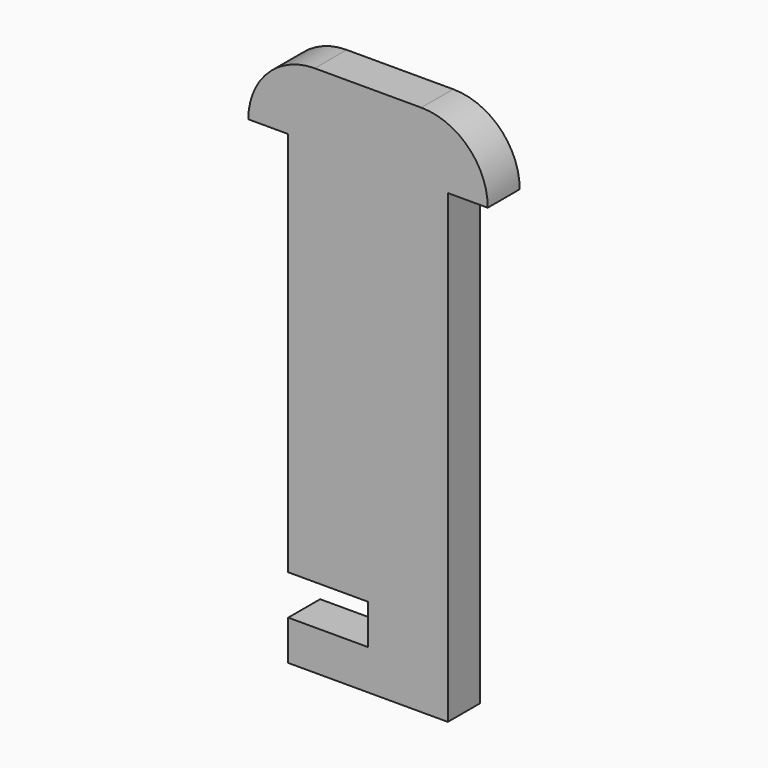
from build123d import *

# Parameters (mm, degrees)
F1_DEPTH = 3


with BuildPart() as f1:
    # F0 (on Front) → F1 (new body)
    with BuildSketch(Plane.XZ):
        with BuildLine():
            Line((-9, 29), (-6, 29))
            Line((-6, 29), (-6, 0))
            Line((-6, 0), (0, 0))
            Line((0, 0), (0, -3))
            Line((0, -3), (-6, -3))
            Line((-6, -3), (-6, -6))
            Line((-6, -6), (6, -6))
            Line((6, -6), (6, 29))
            Line((6, 29), (9, 29))
            ThreePointArc((9, 29), (7.535534, 32.535534), (4, 34))
            Line((4, 34), (-4, 34))
            ThreePointArc((-4, 34), (-7.535534, 32.535534), (-9, 29))
        make_face()
    extrude(amount=F1_DEPTH)


solid = f1.part
